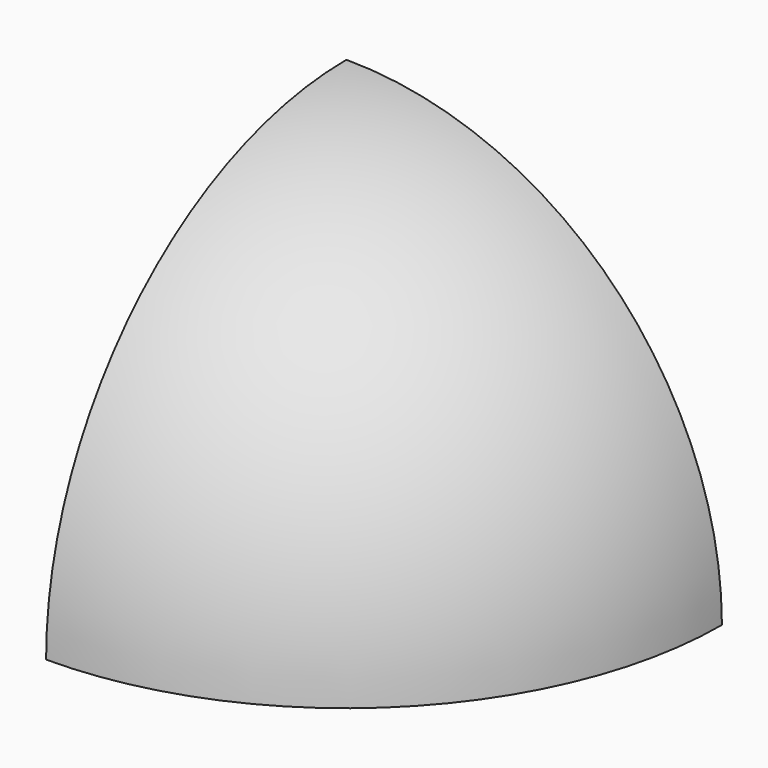
from build123d import *

# Parameters (mm, degrees)
F1_ANGLE  = 90
F3_DEPTH  = 20
F5_DEPTH  = 20
F7_DEPTH  = 20
F10_DEPTH = 10


with BuildPart() as f1:
    # F0 (on Right) → F1 (revolve)
    with BuildSketch(Plane.YZ):
        with BuildLine():
            Line((0, 94.3), (0, 114.3))
            ThreePointArc((0, 114.3), (-80.8223050896, 80.8223050896), (-114.3, 0))
            Line((-114.3, 0), (-94.3, 0))
            ThreePointArc((-94.3, 0), (-66.6801694659, 66.6801694659), (0, 94.3))
        make_face()
    revolve(axis=Axis((0, 0, 104.3), (0, 0, 1)), revolution_arc=F1_ANGLE)

    # F2 (on face) → F3 (cut)
    with BuildSketch(Plane(origin=(0, 0, 0), x_dir=(-1, 0, 0), z_dir=(0, 1, 0))):
        with BuildLine():
            Line((-26.2183692689, 97.8482862031), (-27.7712835395, 103.6438411608))
            ThreePointArc((-27.7712835395, 103.6438411608), (-75.8725576213, 75.8725576213), (-103.6438411608, 27.7712835395))
            Line((-103.6438411608, 27.7712835395), (-97.8482862031, 26.2183692689))
            ThreePointArc((-97.8482862031, 26.2183692689), (-71.6299169342, 71.6299169342), (-26.2183692689, 97.8482862031))
        make_face()
    extrude(amount=-F3_DEPTH, mode=Mode.SUBTRACT)

    # F4 (on face) → F5 (cut)
    with BuildSketch(Plane.YZ):
        with BuildLine():
            ThreePointArc((-97.8482862031, 26.2183692689), (-71.6299169342, 71.6299169342), (-26.2183692689, 97.8482862031))
            Line((-26.2183692689, 97.8482862031), (-27.7712835395, 103.6438411608))
            ThreePointArc((-27.7712835395, 103.6438411608), (-75.8725576213, 75.8725576213), (-103.6438411608, 27.7712835395))
            Line((-103.6438411608, 27.7712835395), (-97.8482862031, 26.2183692689))
        make_face()
    extrude(amount=F5_DEPTH, mode=Mode.SUBTRACT)

    # F6 (on face) → F7 (cut)
    with BuildSketch(Plane(origin=(0, 0, 0), x_dir=(1, 0, 0), z_dir=(0, 0, -1))):
        with BuildLine():
            Line((27.7712835395, 103.6438411608), (26.2183692689, 97.8482862031))
            ThreePointArc((26.2183692689, 97.8482862031), (40.3932806821, 92.8981855352), (53.6808214668, 85.9072721406))
            Line((53.6808214668, 85.9072721406), (56.8603370522, 90.9955607176))
            ThreePointArc((56.8603370522, 90.9955607176), (42.7857750957, 98.4005459815), (27.7712835395, 103.6438411608))
        make_face()
        with BuildLine():
            ThreePointArc((84.9573285329, 55.171934247), (92.1790767398, 42.0084254811), (97.3758097986, 27.9220641443))
            Line((97.3758097986, 27.9220641443), (103.1433799742, 29.5758882792))
            ThreePointArc((103.1433799742, 29.5758882792), (97.6388443651, 44.496584937), (89.9893519405, 58.4397684571))
            Line((89.9893519405, 58.4397684571), (84.9573285329, 55.171934247))
        make_face()
    extrude(amount=-F7_DEPTH, mode=Mode.SUBTRACT)

    # F9 (on offset) → F10 (cut)
    with BuildSketch(Plane(origin=(0, 0, 10), x_dir=(1, 0, 0), z_dir=(0, 0, -1))):
        with BuildLine():
            ThreePointArc((97.3758097986, 27.9220641443), (99.4762319066, 19.1355503099), (100.7854867979, 10.1968451452))
            Line((100.7854867979, 10.1968451452), (106.7579299629, 10.7719260129))
            ThreePointArc((106.7579299629, 10.7719260129), (105.3709505868, 20.2546975401), (103.1433799742, 29.5758882792))
            Line((103.1433799742, 29.5758882792), (97.3758097986, 27.9220641443))
        make_face()
        Polygon((0.327321584, 0.5238240331), (0, 0), (0.4947707785, 0.5399475566), align=None)
        Polygon((0.4947707785, 0.5399475566), (0, 0), (2.5848787999, 0.7412020686), align=None)
        with BuildLine():
            Line((56.8603370522, 90.9955607176), (53.6808214668, 85.9072721406))
            ThreePointArc((53.6808214668, 85.9072721406), (61.3162809887, 80.6350028568), (68.4372880315, 74.6861942189))
            Line((68.4372880315, 74.6861942189), (72.4908292772, 79.1098582397))
            ThreePointArc((72.4908292772, 79.1098582397), (64.948044917, 85.411014872), (56.8603370522, 90.9955607176))
        make_face()
    extrude(amount=-F10_DEPTH, mode=Mode.SUBTRACT)


solid = f1.part
